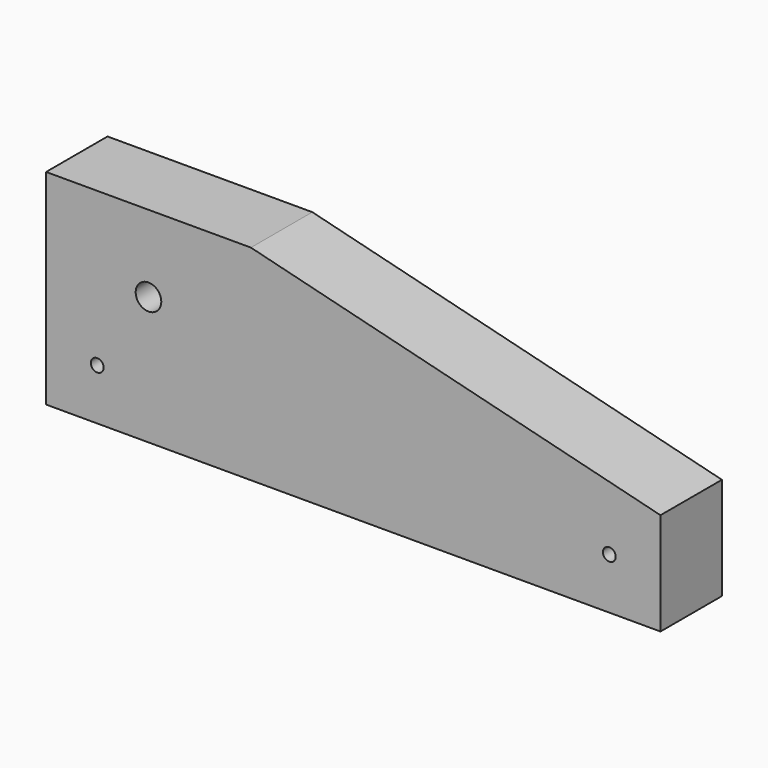
from build123d import *

# Parameters (mm, degrees)
F0_R     = 3.175
F0_R_2   = 6.35
F1_DEPTH = 38.1


with BuildPart() as f1:
    # F0 (on Front) → F1 (new body)
    with BuildSketch(Plane.XZ):
        Polygon((-57.583724, 101.6), (-159.183724, 101.6), (-159.183724, 0), (145.616276, 0), (145.616276, 50.8), align=None)
        with Locations((-133.783724, 25.4)):
            Circle(F0_R, mode=Mode.SUBTRACT)
        with Locations((120.216276, 25.4)):
            Circle(F0_R, mode=Mode.SUBTRACT)
        with Locations((-108.383724, 63.5)):
            Circle(F0_R_2, mode=Mode.SUBTRACT)
    extrude(amount=F1_DEPTH)


solid = f1.part
